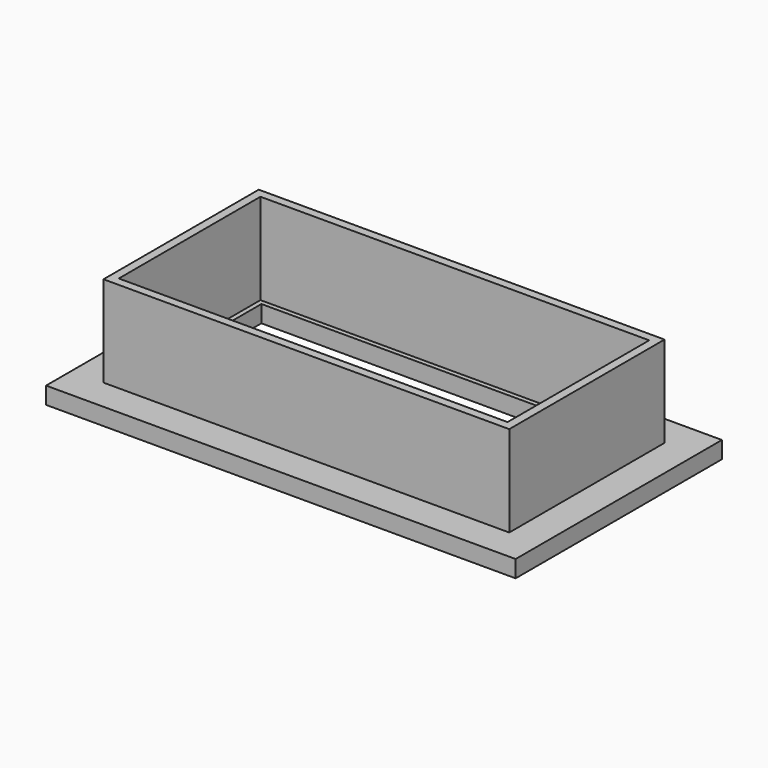
from build123d import *

# Parameters (mm, degrees)
F0_W     = 27.606
F0_H     = 15.16
F0_W_2   = 22.302
F0_H_2   = 9.856
F1_DEPTH = 1
F2_W     = 23.856
F2_H     = 11.41
F2_W_2   = 22.856
F2_H_2   = 10.41
F3_DEPTH = 6.35


with BuildPart() as f1:
    # F0 (on Top) → F1 (new body)
    with BuildSketch(Plane.XY):
        Rectangle(F0_W, F0_H)
        Rectangle(F0_W_2, F0_H_2, mode=Mode.SUBTRACT)
    extrude(amount=F1_DEPTH)


with BuildPart() as f3:
    # F2 (on Top) → F3 (new body)
    with BuildSketch(Plane.XY):
        Rectangle(F2_W, F2_H)
        Rectangle(F2_W_2, F2_H_2, mode=Mode.SUBTRACT)
    extrude(amount=F3_DEPTH)


solid = Compound([f1.part, f3.part])
